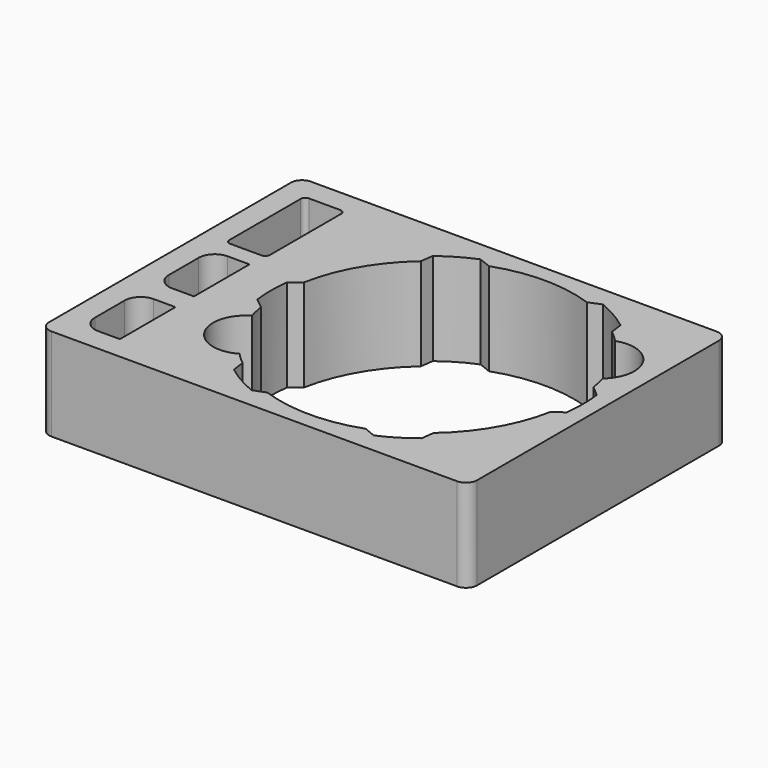
from build123d import *

# Parameters (mm, degrees)
F1_DEPTH = 50.8
F2_W     = 20.828
F2_H     = 38.1
F3_DEPTH = 50.8
F4_W     = 22.225
F4_H     = 53.975
F5_DEPTH = 50.8
F6_R     = 8.89
F7_R     = 2.54


with BuildPart() as f1:
    # F0 (on Top) → F1 (new body)
    with BuildSketch(Plane.XY):
        with BuildLine():
            ThreePointArc((-111.331622, 89), (-115.642145, 87.214523), (-117.427622, 82.904))
            Line((-117.427622, 82.904), (-117.427622, -82.904))
            ThreePointArc((-117.427622, -82.904), (-115.642145, -87.214523), (-111.331622, -89))
            Line((-111.331622, -89), (111.331622, -89))
            ThreePointArc((111.331622, -89), (115.642145, -87.214523), (117.427622, -82.904))
            Line((117.427622, -82.904), (117.427622, 82.904))
            ThreePointArc((117.427622, 82.904), (115.642145, 87.214523), (111.331622, 89))
            Line((111.331622, 89), (-111.331622, 89))
        make_face()
        with BuildLine():
            ThreePointArc((-60.918022, -10.802655), (-61.609639, -0.559986), (-60.913995, 9.68241))
            Line((-60.913995, 9.68241), (-55.212554, 14.261207))
            ThreePointArc((-55.212554, 14.261207), (-45.748511, 39.77658), (-28.391702, 60.737103))
            Line((-28.391702, 60.737103), (-27.407633, 67.742944))
            ThreePointArc((-27.407633, 67.742944), (-18.790824, 73.526894), (-9.485241, 78.121416))
            Line((-9.485241, 78.121416), (-2.738388, 75.428307))
            ThreePointArc((-2.738388, 75.428307), (24.098624, 80.048241), (50.935831, 75.42944))
            Line((50.935831, 75.42944), (57.610091, 78.186609))
            ThreePointArc((57.610091, 78.186609), (66.892407, 73.605247), (75.516596, 67.880422))
            Line((75.516596, 67.880422), (76.520517, 60.753405))
            ThreePointArc((76.520517, 60.753405), (79.783196, 57.954312), (82.843276, 54.935057))
            ThreePointArc((82.843276, 54.935057), (104.449894, 47.071779), (100.407804, 24.436881))
            ThreePointArc((100.407804, 24.436881), (101.514269, 20.155202), (102.319921, 15.806873))
            Line((102.319921, 15.806873), (108.049072, 10.873495))
            ThreePointArc((108.049072, 10.873495), (108.709842, 0.589153), (108.105719, -9.698672))
            Line((108.105719, -9.698672), (102.348457, -13.775574))
            ThreePointArc((102.348457, -13.775574), (92.855411, -39.306001), (75.46826, -60.272823))
            Line((75.46826, -60.272823), (74.544008, -67.341163))
            ThreePointArc((74.544008, -67.341163), (66.082602, -73.324939), (56.891661, -78.113213))
            Line((56.891661, -78.113213), (50.250983, -75.428069))
            ThreePointArc((50.250983, -75.428069), (23.341097, -80.124901), (-3.581639, -75.502299))
            Line((-3.581639, -75.502299), (-10.28992, -78.054152))
            ThreePointArc((-10.28992, -78.054152), (-19.562426, -73.562391), (-28.115124, -67.817248))
            Line((-28.115124, -67.817248), (-29.074377, -60.66791))
            ThreePointArc((-29.074377, -60.66791), (-32.330068, -57.869325), (-35.398386, -54.86649))
            ThreePointArc((-35.398386, -54.86649), (-59.811696, -48.379935), (-53.325141, -23.966625))
            ThreePointArc((-53.325141, -23.966625), (-54.434448, -19.687429), (-55.222977, -15.337682))
            Line((-55.222977, -15.337682), (-60.918022, -10.802655))
        make_face(mode=Mode.SUBTRACT)
    extrude(amount=F1_DEPTH)

    # F2 (on face) → F3 (cut)
    with BuildSketch(Plane.XY.offset(50.8)):
        with Locations((-94.313622, -57.25)):
            Rectangle(F2_W, F2_H)
        with Locations((-94.313622, -6.45)):
            Rectangle(F2_W, F2_H)
    extrude(amount=-F3_DEPTH, mode=Mode.SUBTRACT)

    # F4 (on face) → F5 (cut)
    with BuildSketch(Plane.XY.offset(50.8)):
        with Locations((-93.615122, 49.3125)):
            Rectangle(F4_W, F4_H)
    extrude(amount=-F5_DEPTH, mode=Mode.SUBTRACT)

    # F6
    f6_edges = [f1.edges().sort_by_distance(p)[0] for p in [
        (-104.727622, 12.6, 25.4),
        (-104.727622, -38.2, 25.4),
        (-104.727622, -25.5, 25.4),
        (-104.727622, -76.3, 25.4),
    ]]
    fillet(f6_edges, radius=F6_R)

    # F7
    f7_edges = [f1.edges().sort_by_distance(p)[0] for p in [
        (-82.502622, 76.3, 25.4),
        (-104.727622, 76.3, 25.4),
        (-82.502622, 22.325, 25.4),
        (-104.727622, 22.325, 25.4),
    ]]
    fillet(f7_edges, radius=F7_R)


solid = f1.part
